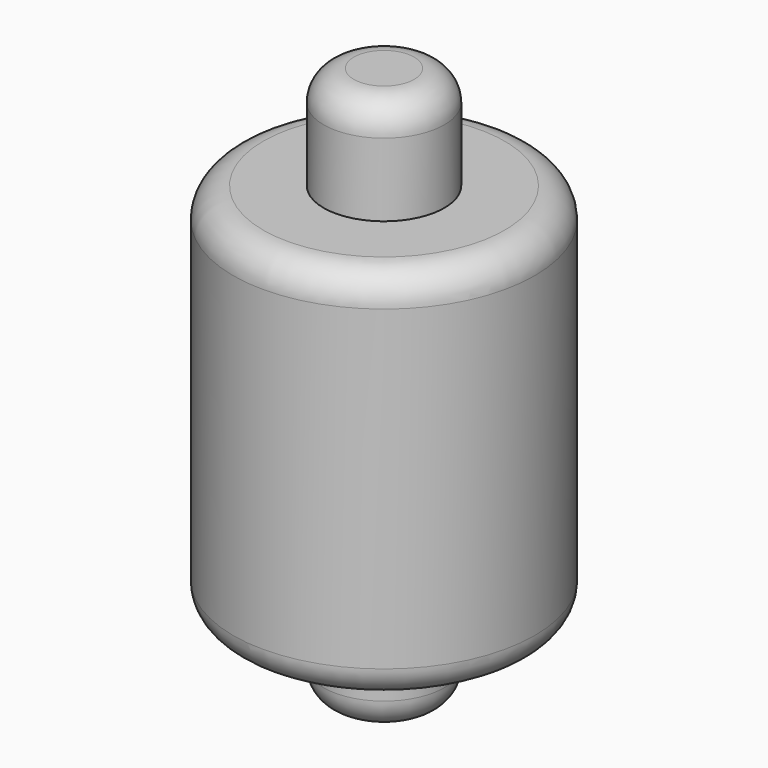
from build123d import *

# Parameters (mm, degrees)
F2_R = 2


with BuildPart() as f1:
    # F0 (on Front) → F1 (revolve)
    with BuildSketch(Plane.XZ):
        Polygon((-4, 0), (0, 0), (0, 36.851066), (-4, 36.851066), (-4, 30), (-10, 30), (-10, 5), (-4, 5), align=None)
    revolve(axis=Axis((0, 0, 18.425533), (0, 0, -1)))

    # F2
    f2_edges = [f1.edges().sort_by_distance(p)[0] for p in [
        (10, 0, 30),
        (10, 0, 5),
        (4, 0, 0),
        (4, 0, 36.851066),
    ]]
    fillet(f2_edges, radius=F2_R)


solid = f1.part
